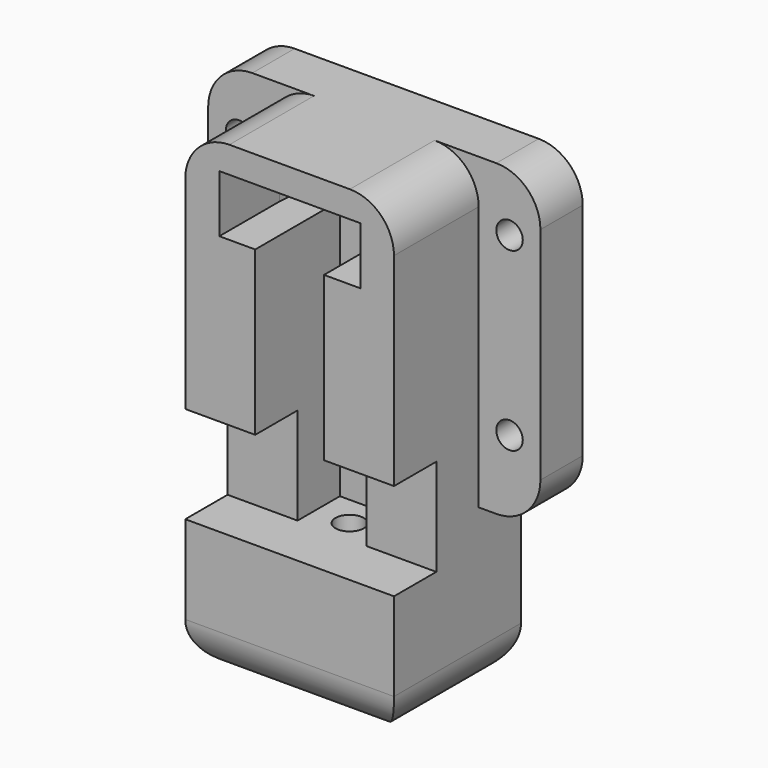
from build123d import *

# Parameters (mm, degrees)
F1_DEPTH      = 39
F1_DEPTH_BACK = 15
F2_W          = 23.6637403975
F2_H          = 12
F3_DEPTH      = 15
F4_D          = 3.2
F5_W          = 7.9318701987
F5_H          = 11
F6_DEPTH      = 6
F9_DEPTH      = 6.5
F10_DEPTH     = 12
F11_W         = 6
F11_H         = 35
F12_DEPTH     = 7
F13_W         = 6
F13_H         = 35
F14_DEPTH     = 7
F15_R         = 5
F16_R         = 5
F18_D         = 3


with BuildPart() as f1:
    # F0 (on Top) → F1 (new body, two sides)
    with BuildSketch(Plane.XY) as f1_sk:
        Polygon((-11.8318701987, 6), (-11.8318701987, 0), (-11.8318701987, -2.6806737598), (-11.8318701987, -12), (-3.9, -12), (-3.9, 0), (0, 0), (3.9, 0), (3.9, -12), (11.8318701987, -12), (11.8318701987, -2.6806737598), (11.8318701987, 0), (11.8318701987, 6), (0, 6), align=None)
    extrude(amount=F1_DEPTH)
    extrude(f1_sk.sketch, amount=-F1_DEPTH_BACK)

    # F2 (on Top) → F3 (join, through all)
    with BuildSketch(Plane.XY):
        with Locations((0, -6)):
            Rectangle(F2_W, F2_H)
    extrude(amount=-F3_DEPTH)

    # F4 (through all)
    with Locations(Plane.XY):
        with Locations((0, -3.5)):
            Hole(F4_D / 2)

    # F5 (on face) → F6 (cut)
    with BuildSketch(Plane.XZ.offset(12)):
        with Locations((7.8659350994, 5.5)):
            Rectangle(F5_W, F5_H)
        with Locations((-7.8659350994, 5.5)):
            Rectangle(F5_W, F5_H)
    extrude(amount=-F6_DEPTH, mode=Mode.SUBTRACT)

    # F8 (on offset) → F9 (cut)
    with BuildSketch(Plane.XY.offset(36)):
        with BuildLine():
            Line((8.0307415794, -12), (8.0307415794, -3.5038522084))
            ThreePointArc((8.0307415794, -3.5038522084), (0.0307415794, 4.4961477916), (-7.9692584206, -3.5038522084))
            Line((-7.9692584206, -3.5038522084), (-7.9692584206, -12))
            Line((-7.9692584206, -12), (3.9, -12))
            Line((3.9, -12), (8.0307415794, -12))
        make_face()
    extrude(amount=-F9_DEPTH, mode=Mode.SUBTRACT)

    # F10 (add, through all): a face of the model
    f10_faces = [f1.faces().sort_by_distance(p)[0] for p in [
        (0, 0, 37.5),
    ]]
    extrude(f10_faces, amount=F10_DEPTH)

    # F11 (on face) → F12 (join)
    with BuildSketch(Plane(origin=(-11.8318701987, 0, 0), x_dir=(0, -1, 0), z_dir=(-1, 0, 0))):
        with Locations((-3, 21.5)):
            Rectangle(F11_W, F11_H)
    extrude(amount=F12_DEPTH)

    # F13 (on face) → F14 (join)
    with BuildSketch(Plane.YZ.offset(11.8318701987)):
        with Locations((3, 21.5)):
            Rectangle(F13_W, F13_H)
    extrude(amount=F14_DEPTH)

    # F15
    f15_edges = [f1.edges().sort_by_distance(p)[0] for p in [
        (-18.83187, 3, 39),
        (-18.83187, 3, 4),
        (18.83187, 3, 4),
        (18.83187, 3, 39),
        (-11.83187, -6, 39),
        (11.83187, -6, 39),
    ]]
    fillet(f15_edges, radius=F15_R)

    # F16
    f16_edges = [f1.edges().sort_by_distance(p)[0] for p in [
        (-11.83187, -3, -15),
        (0, -12, -15),
        (11.83187, -3, -15),
        (0, 6, -15),
    ]]
    fillet(f16_edges, radius=F16_R)

    # F18 (through all)
    with Locations(Plane(origin=(0, 6, 0), x_dir=(-1, 0, 0), z_dir=(0, 1, 0))):
        with Locations((-15.3318701987, 32.3067344725), (-15.3318701987, 12.3429447412), (15.3318701987, 12.3429447412), (15.3318701987, 32.3067344725)):
            Hole(F18_D / 2)


solid = f1.part
